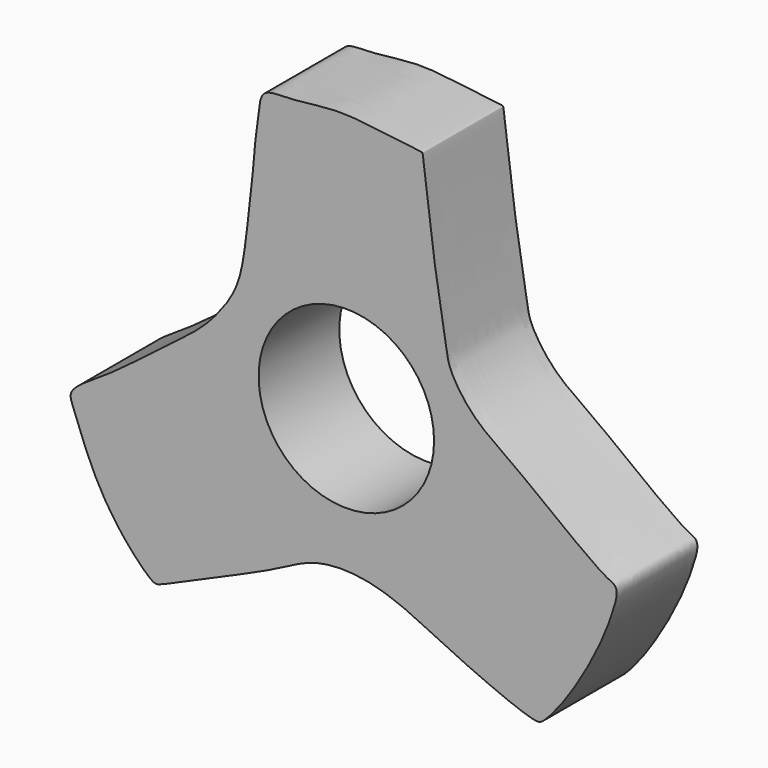
from build123d import *

# Parameters (mm, degrees)
F0_R     = 11.049
F1_DEPTH = 12.7


with BuildPart() as f1:
    # F0 (on Front) → F1 (new body)
    with BuildSketch(Plane.XZ):
        with BuildLine():
            add(Edge.make_bspline(
                [(-48.4284156842, 72.4891056286), (-47.8585325133, 73.0333365028), (-45.1283125182, 72.8419046597), (-39.2016889395, 73.8336768809), (-34.6441157352, 73.188551745), (-28.5778709854, 72.5572056621), (-28.3827820945, 72.3527925912), (-27.5927180033, 65.3158847732), (-26.7136294827, 59.0014726423), (-25.5000168722, 52.2632986053), (-25.1802872966, 49.4169080087), (-21.9667374085, 44.8244767649), (-17.2001317836, 41.8420936042), (-12.5352022883, 38.0664975853), (-6.9081216287, 33.9105665963), (-5.1744206945, 32.8147026678), (-3.7250161305, 32.2677470439), (-4.389205708, 29.3866980163), (-6.3752698276, 24.2905312724), (-10.0964813562, 17.9161721636), (-13.1479055588, 14.2961200762), (-14.5423375693, 13.7457218454), (-25.6898495822, 18.6419315226), (-30.3833048215, 21.1732607426), (-35.8191094991, 23.066058937), (-41.9675595716, 23.1246570553), (-46.9925038119, 20.1460973767), (-52.742701691, 17.6897686365), (-61.2988131243, 13.814006454), (-62.5685698829, 13.5739228513), (-67.4216308574, 18.7571846512), (-70.5016010568, 24.5800953233), (-72.4413912411, 29.8817646196), (-73.2272755001, 31.9094983725), (-67.7220103651, 35.0649977909), (-62.8184579027, 39.06898427), (-56.6753935465, 43.4816708041), (-54.0992473659, 46.3236869217), (-51.427540617, 50.1173182267), (-50.6679230319, 55.9714313464), (-49.8384622381, 62.6939895193), (-49.5646799356, 67.1263873436), (-49.0471290627, 69.9404493781), (-48.9382074952, 72.0022612064), (-48.4284156842, 72.4891056286)],
                knots=[0, 0, 0, 0, 0.0191633782, 0.0458217433, 0.0712516381, 0.0967415046, 0.1014581369, 0.1287590167, 0.1588494366, 0.1865168283, 0.2049444511, 0.2298425258, 0.2557905435, 0.2832122435, 0.3118681695, 0.3273638915, 0.3389965933, 0.3558753792, 0.3819079661, 0.4124164647, 0.4350791895, 0.4471219899, 0.4842146669, 0.5112659029, 0.5366012246, 0.563210473, 0.5888006022, 0.6176207353, 0.6502361614, 0.6614542255, 0.6889625128, 0.7187579846, 0.7441085057, 0.7578715559, 0.7833912637, 0.8124285942, 0.8420041333, 0.8633626816, 0.8860625233, 0.912642173, 0.9413374519, 0.9641683839, 0.9828573052, 1, 1, 1, 1], degree=3))
        make_face()
        with Locations((-38.0566057278, 40.963082642)):
            Circle(F0_R, mode=Mode.SUBTRACT)
    extrude(amount=F1_DEPTH)


solid = f1.part
